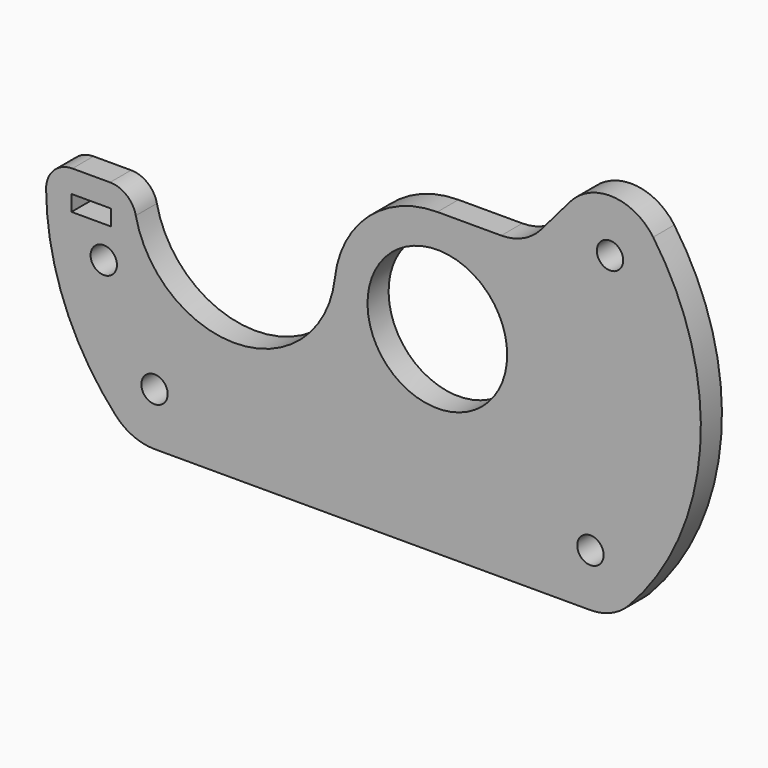
from build123d import *

# Parameters (mm, degrees)
F0_R     = 2.5
F0_W     = 7.5
F0_H     = 3
F1_DEPTH = 5


with BuildPart() as f1:
    # F0 (on Front) → F1 (new body)
    with BuildSketch(Plane.XZ):
        with BuildLine():
            Line((-53.669743, -37.5), (29.047375, -37.5))
            ThreePointArc((29.047375, -37.5), (33.000222, -36.685587), (36.309219, -34.375))
            ThreePointArc((36.309219, -34.375), (49.864682, -3.676068), (40.957602, 28.678822))
            ThreePointArc((40.957602, 28.678822), (33.247823, 32.931447), (25.164572, 29.440522))
            Line((25.164572, 29.440522), (19.7208, 23.071748))
            ThreePointArc((19.7208, 23.071748), (16.304105, 20.486959), (12.11929, 19.569212))
            Line((12.11929, 19.569212), (0, 19.569212))
            ThreePointArc((0, 19.569212), (-13.044872, 14.587166), (-19.447661, 2.177743))
            ThreePointArc((-19.447661, 2.177743), (-37.550938, -14.819453), (-57.215631, 0.344095))
            ThreePointArc((-57.215631, 0.344095), (-58.958953, 3.193251), (-62.107302, 4.308938))
            Line((-62.107302, 4.308938), (-69.242118, 4.308938))
            ThreePointArc((-69.242118, 4.308938), (-72.788821, 2.833268), (-74.242018, -0.722701))
            ThreePointArc((-74.242018, -0.722701), (-70.76408, -18.73091), (-61.026424, -34.273422))
            ThreePointArc((-61.026424, -34.273422), (-57.68632, -36.657899), (-53.669743, -37.5))
        make_face()
        with Locations((-53.669743, -27.5)):
            Circle(F0_R, mode=Mode.SUBTRACT)
        with Locations((-63.29486, -9.063897)):
            Circle(F0_R, mode=Mode.SUBTRACT)
        with Locations((29.047375, -27.5)):
            Circle(F0_R, mode=Mode.SUBTRACT)
        with Locations((-65.67471, -1.5)):
            Rectangle(F0_W, F0_H, mode=Mode.SUBTRACT)
        with BuildLine():
            ThreePointArc((8.60914, 10.072001), (12.033985, 5.54488), (13.25, 0))
            ThreePointArc((13.25, 0), (-11.883564, -5.860325), (8.066089, 10.511932))
            ThreePointArc((8.066089, 10.511932), (8.340516, 10.295547), (8.60914, 10.072001))
        make_face(mode=Mode.SUBTRACT)
        with Locations((32.766082, 22.943057)):
            Circle(F0_R, mode=Mode.SUBTRACT)
    extrude(amount=F1_DEPTH)


solid = f1.part
